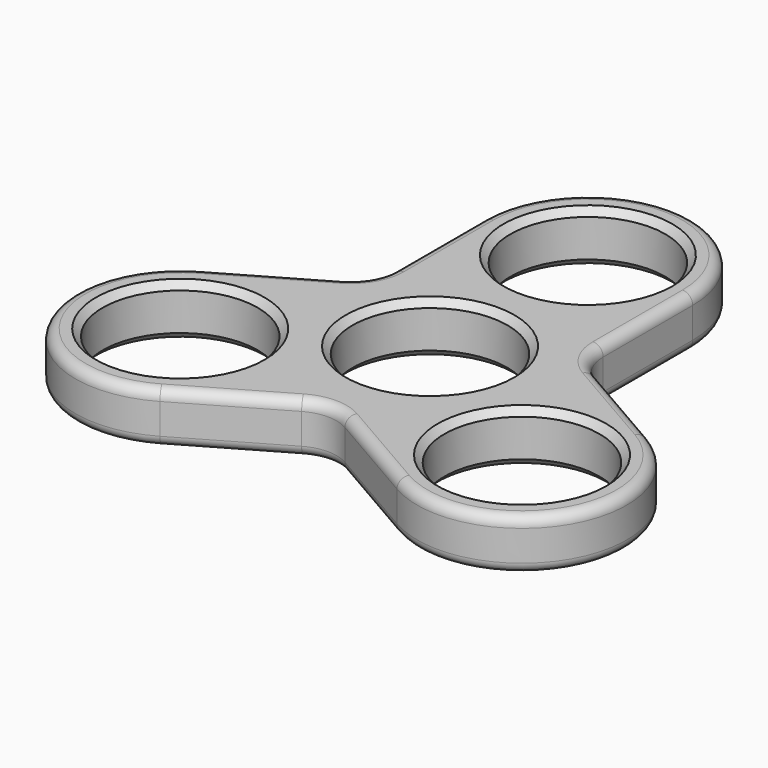
from build123d import *

# Parameters (mm, degrees)
F0_R     = 11.4
F1_DEPTH = 7.5
F2_R     = 1.5
F3_SIZE  = 1


with BuildPart() as f1:
    # F0 (on Top) → F1 (new body)
    with BuildSketch(Plane.XY):
        with BuildLine():
            Line((15.4, 12.557368), (15.4, 29))
            ThreePointArc((15.4, 29), (0, 44.4), (-15.4, 29))
            Line((-15.4, 29), (-15.4, 12.557368))
            ThreePointArc((-15.4, 12.557368), (-16.250739, 9.382368), (-18.575, 7.058107))
            Line((-18.575, 7.058107), (-32.814737, -1.163209))
            ThreePointArc((-32.814737, -1.163209), (-38.451528, -22.2), (-17.414737, -27.836791))
            Line((-17.414737, -27.836791), (-3.175, -19.615475))
            ThreePointArc((-3.175, -19.615475), (0, -18.764737), (3.175, -19.615475))
            Line((3.175, -19.615475), (17.414737, -27.836791))
            ThreePointArc((17.414737, -27.836791), (38.451528, -22.2), (32.814737, -1.163209))
            Line((32.814737, -1.163209), (18.575, 7.058107))
            ThreePointArc((18.575, 7.058107), (16.250739, 9.382368), (15.4, 12.557368))
        make_face()
        with Locations((-25.114737, -14.5)):
            Circle(F0_R, mode=Mode.SUBTRACT)
        with Locations((25.114737, -14.5)):
            Circle(F0_R, mode=Mode.SUBTRACT)
        Circle(F0_R, mode=Mode.SUBTRACT)
        with Locations((0, 29)):
            Circle(F0_R, mode=Mode.SUBTRACT)
    extrude(amount=F1_DEPTH)

    # F2
    f2_edges = [f1.edges().sort_by_distance(p)[0] for p in [
        (-16.250739, 9.382368, 0),
        (15.4, 12.557368, 3.75),
        (25.694868, 2.947449, 7.5),
    ]]
    fillet(f2_edges, radius=F2_R)

    # F3
    f3_edges = [f1.edges().sort_by_distance(p)[0] for p in [
        (-11.4, 29, 7.5),
        (-11.4, 0, 0),
        (-11.4, 0, 7.5),
        (13.714737, -14.5, 0),
        (13.714737, -14.5, 7.5),
        (-36.514737, -14.5, 7.5),
        (-36.514737, -14.5, 0),
        (-11.4, 29, 0),
    ]]
    chamfer(f3_edges, length=F3_SIZE)


solid = f1.part
